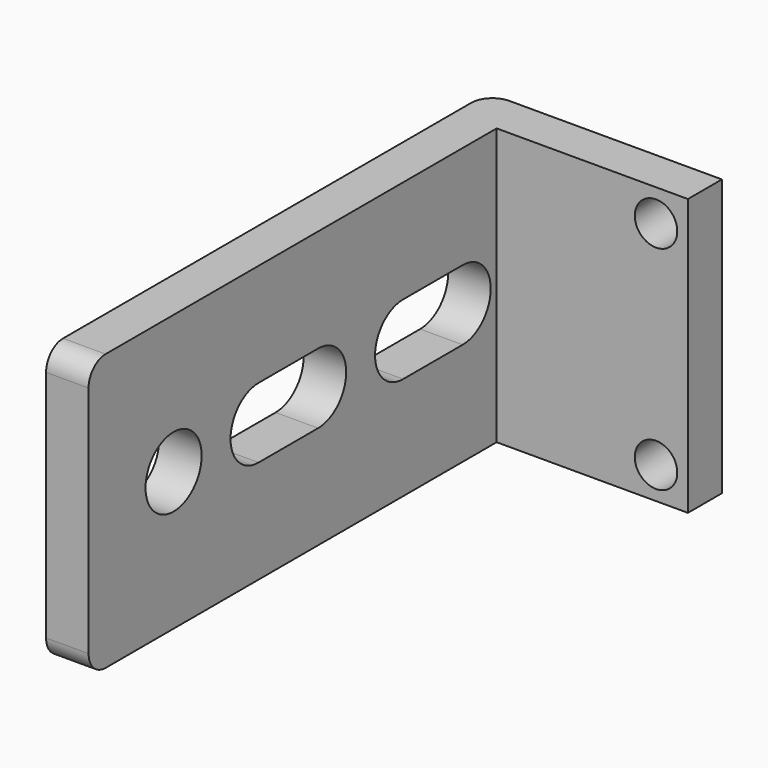
from build123d import *

# Parameters (mm, degrees)
PAD_DEPTH       = 26
SKETCH001_R     = 2
POCKET_DEPTH    = 4
SKETCH002_R     = 3.3
POCKET001_DEPTH = 4
FILLET_R        = 2
FILLET001_R     = 2
FILLET002_R     = 2


with BuildPart() as part:
    # Sketch → Pad (new body)
    with BuildSketch(Plane.XY):
        Polygon((0, 0), (0, 52), (22, 52), (22, 48), (4, 48), (4, 0), align=None)
    extrude(amount=PAD_DEPTH)

    # Sketch001 (on Face2 of Pad) → Pocket (cut)
    with BuildSketch(Plane(origin=(0, 52, 0), x_dir=(-1, 0, 0), z_dir=(0, 1, 0))):
        with Locations((-19, 3)):
            Circle(SKETCH001_R)
        with Locations((-19, 23)):
            Circle(SKETCH001_R)
    extrude(amount=-POCKET_DEPTH, mode=Mode.SUBTRACT)

    # Sketch002 (on Face1 of Pocket) → Pocket001 (cut)
    with BuildSketch(Plane(origin=(0, 0, 0), x_dir=(0, -1, 0), z_dir=(-1, 0, 0))):
        with Locations((-10, 13)):
            Circle(SKETCH002_R)
        with BuildLine():
            ThreePointArc((-27, 16.3), (-30.3, 13), (-27, 9.7))
            Line((-27, 9.7), (-20, 9.7))
            ThreePointArc((-20, 9.7), (-16.7, 13), (-20, 16.3))
            Line((-27, 16.3), (-20, 16.3))
        make_face()
        with BuildLine():
            ThreePointArc((-44, 16.3), (-47.3, 13), (-44, 9.7))
            Line((-44, 9.7), (-37, 9.7))
            ThreePointArc((-37, 9.7), (-33.7, 13), (-37, 16.3))
            Line((-44, 16.3), (-37, 16.3))
        make_face()
    extrude(amount=-POCKET001_DEPTH, mode=Mode.SUBTRACT)

    # Fillet
    fillet_edges = [part.edges().sort_by_distance(p)[0] for p in [
        (0, 52, 13),
    ]]
    fillet(fillet_edges, radius=FILLET_R)

    # Fillet001
    fillet001_edges = [part.edges().sort_by_distance(p)[0] for p in [
        (2, 0, 0),
    ]]
    fillet(fillet001_edges, radius=FILLET001_R)

    # Fillet002
    fillet002_edges = [part.edges().sort_by_distance(p)[0] for p in [
        (2, 0, 26),
    ]]
    fillet(fillet002_edges, radius=FILLET002_R)


solid = part.part
